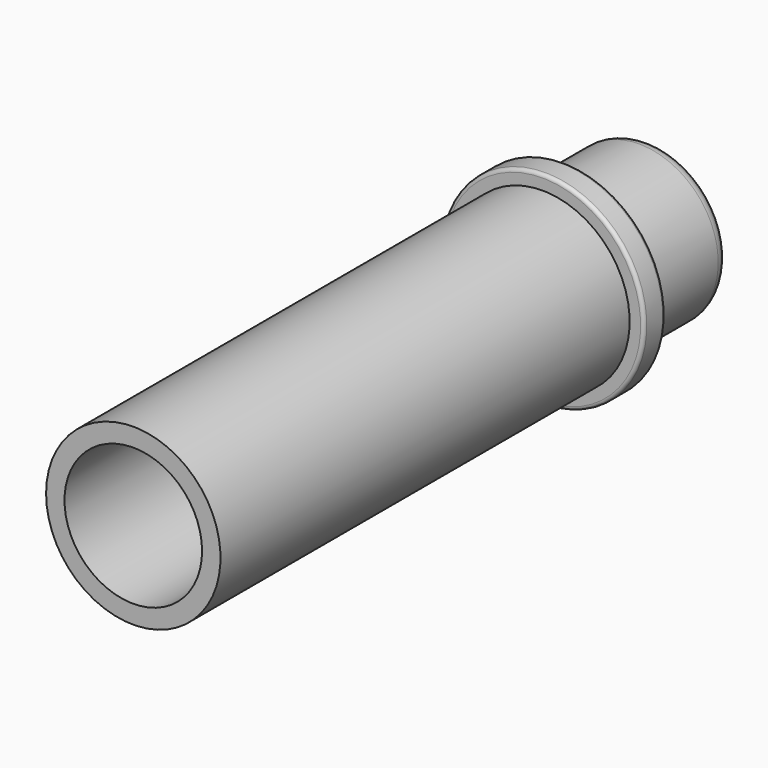
from build123d import *

# Parameters (mm, degrees)
F2_R     = 1
F3_R     = 0.25
F4_R     = 5
F5_DEPTH = 39


with BuildPart() as f1:
    # F0 (on Top) → F1 (revolve)
    with BuildSketch(Plane.XY):
        Polygon((-6.34, -37.18), (0, -37.18), (0, 9.81), (-5.73, 9.81), (-5.73, 1.94), (-7.39, 1.94), (-7.39, 0), (-6.34, 0), align=None)
    revolve(axis=Axis((0, -13.32371, 0), (0, 1, 0)))

    # F2
    f2_edges = [f1.edges().sort_by_distance(p)[0] for p in [
        (5.73, 9.81, 0),
    ]]
    fillet(f2_edges, radius=F2_R)

    # F3
    f3_edges = [f1.edges().sort_by_distance(p)[0] for p in [
        (7.39, 1.94, 0),
        (7.39, 0, 0),
        (-7.39, 0.97, 0),
    ]]
    fillet(f3_edges, radius=F3_R)

    # F4 (on face) → F5 (cut)
    with BuildSketch(Plane.XZ.offset(37.18)):
        Circle(F4_R)
    extrude(amount=-F5_DEPTH, mode=Mode.SUBTRACT)


solid = f1.part
